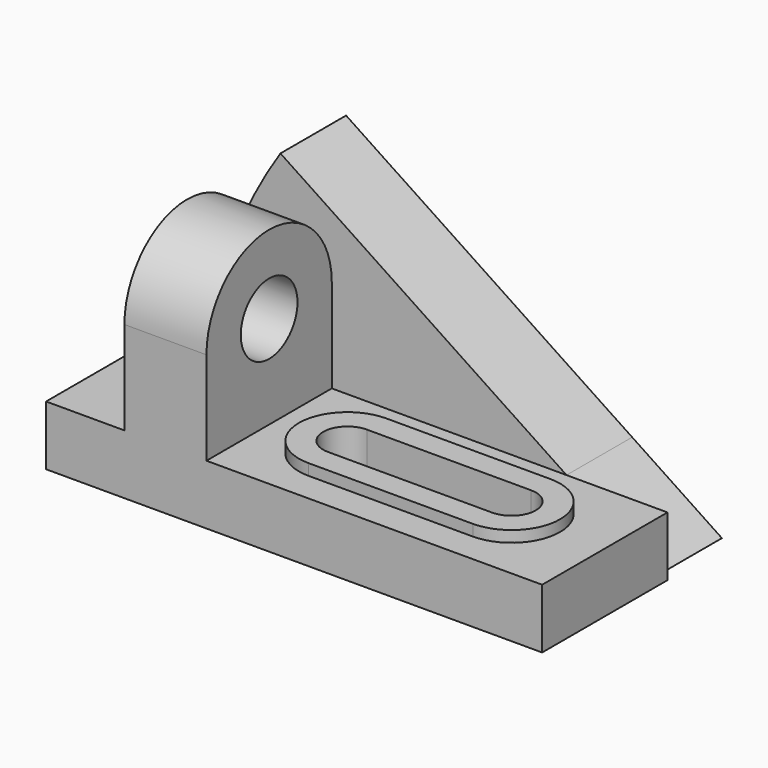
from build123d import *

# Parameters (mm, degrees)
F0_W      = 42
F0_H      = 16
F1_DEPTH  = 90
F3_DEPTH  = 22
F4_W      = 42
F4_H      = 16
F5_DEPTH  = 21
F7_DEPTH  = 3
F8_W      = 44
F8_H      = 13
F9_DEPTH  = 19
F11_DEPTH = 22


with BuildPart() as f1:
    # F0 (on Right) → F1 (new body)
    with BuildSketch(Plane.YZ):
        with Locations((24.0463, 16.209877)):
            Rectangle(F0_W, F0_H)
    extrude(amount=-F1_DEPTH)

    # F2 (on face) → F3 (join)
    with BuildSketch(Plane(origin=(-90, 0, 0), x_dir=(0, -1, 0), z_dir=(-1, 0, 0))):
        with BuildLine():
            Line((-45.0463, 49.209877), (-45.0463, 24.209877))
            Line((-45.0463, 24.209877), (-45.0463, 8.209877))
            Line((-45.0463, 8.209877), (-3.0463, 8.209877))
            Line((-3.0463, 8.209877), (-3.0463, 24.209877))
            Line((-3.0463, 24.209877), (-3.0463, 49.209877))
            Line((-3.0463, 49.209877), (-14.5463, 49.209877))
            ThreePointArc((-14.5463, 49.209877), (-24.0463, 39.709877), (-33.5463, 49.209877))
            Line((-33.5463, 49.209877), (-45.0463, 49.209877))
        make_face()
        with BuildLine():
            ThreePointArc((-3.0463, 49.209877), (-24.0463, 70.209877), (-45.0463, 49.209877))
            Line((-45.0463, 49.209877), (-33.5463, 49.209877))
            ThreePointArc((-33.5463, 49.209877), (-24.0463, 58.709877), (-14.5463, 49.209877))
            Line((-14.5463, 49.209877), (-3.0463, 49.209877))
        make_face()
    extrude(amount=F3_DEPTH)

    # F4 (on face) → F5 (join)
    with BuildSketch(Plane(origin=(-112, 0, 0), x_dir=(0, -1, 0), z_dir=(-1, 0, 0))):
        with Locations((-24.0463, 16.209877)):
            Rectangle(F4_W, F4_H)
    extrude(amount=F5_DEPTH)

    # F6 (on face) → F7 (join)
    with BuildSketch(Plane.XY.offset(24.209877)):
        with BuildLine():
            Line((-69, 11.0463), (-25, 11.0463))
            ThreePointArc((-25, 11.0463), (-12, 24.0463), (-25, 37.0463))
            Line((-25, 37.0463), (-69, 37.0463))
            ThreePointArc((-69, 37.0463), (-82, 24.0463), (-69, 11.0463))
        make_face()
    extrude(amount=F7_DEPTH)

    # F8 (on face) → F9 (cut)
    with BuildSketch(Plane.XY.offset(27.209877)):
        with Locations((-47, 24.0463)):
            Rectangle(F8_W, F8_H)
        with BuildLine():
            Line((-69, 17.5463), (-69, 30.5463))
            ThreePointArc((-69, 30.5463), (-75.5, 24.0463), (-69, 17.5463))
        make_face()
        with BuildLine():
            ThreePointArc((-25, 17.5463), (-18.5, 24.0463), (-25, 30.5463))
            Line((-25, 30.5463), (-25, 17.5463))
        make_face()
    extrude(amount=-F9_DEPTH, mode=Mode.SUBTRACT)

    # F10 (on face) → F11 (join)
    with BuildSketch(Plane(origin=(0, 45.0463, 0), x_dir=(-1, 0, 0), z_dir=(0, 1, 0))):
        with BuildLine():
            ThreePointArc((122.937484, 24.209877), (116.255949, 50.802013), (103.758959, 75.207132))
            Line((103.758959, 75.207132), (27.062827, 24.209877))
            Line((27.062827, 24.209877), (90, 24.209877))
            Line((90, 24.209877), (90, 49.209877))
            Line((90, 49.209877), (112, 49.209877))
            Line((112, 49.209877), (112, 24.209877))
            Line((112, 24.209877), (122.937484, 24.209877))
        make_face()
        with BuildLine():
            ThreePointArc((124, 8.209877), (123.734079, 16.227497), (122.937484, 24.209877))
            Line((122.937484, 24.209877), (112, 24.209877))
            Line((112, 24.209877), (112, 49.209877))
            Line((112, 49.209877), (90, 49.209877))
            Line((90, 49.209877), (90, 24.209877))
            Line((90, 24.209877), (27.062827, 24.209877))
            Line((27.062827, 24.209877), (3, 8.209877))
            Line((3, 8.209877), (124, 8.209877))
        make_face()
    extrude(amount=F11_DEPTH)


solid = f1.part
